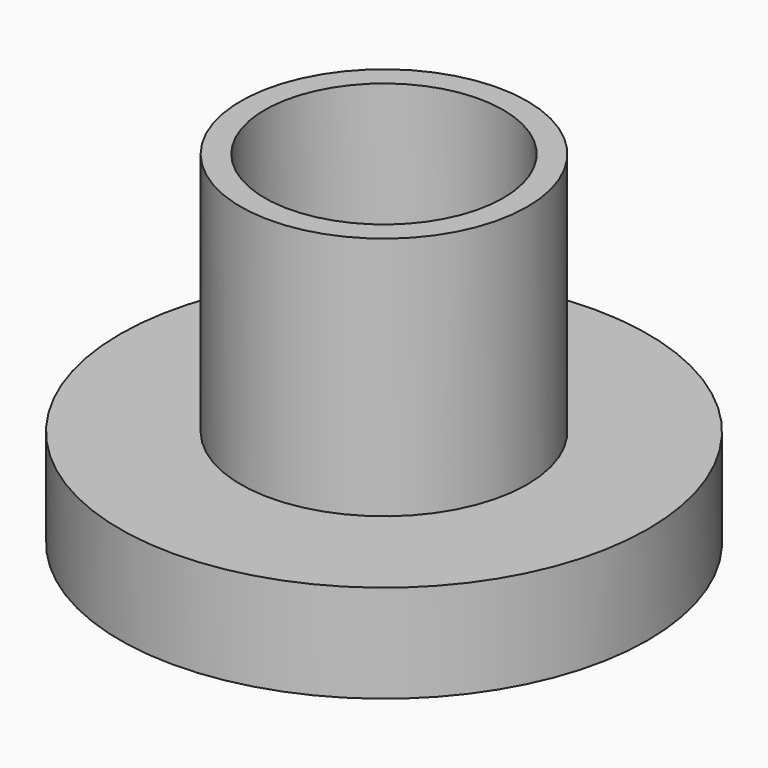
from build123d import *

# Parameters (mm, degrees)
F0_R     = 27
F1_DEPTH = 10
F2_R     = 14.65
F3_DEPTH = 25
F4_R     = 12.2
F5_DEPTH = 25
F6_R     = 3
F7_DEPTH = 5


with BuildPart() as f1:
    # F0 (on Top) → F1 (new body)
    with BuildSketch(Plane.XY):
        Circle(F0_R)
    extrude(amount=F1_DEPTH)

    # F2 (on face) → F3 (join)
    with BuildSketch(Plane.XY.offset(10)):
        Circle(F2_R)
    extrude(amount=F3_DEPTH)

    # F4 (on face) → F5 (cut)
    with BuildSketch(Plane.XY.offset(35)):
        Circle(F4_R)
    extrude(amount=-F5_DEPTH, mode=Mode.SUBTRACT)

    # F6 (on face) → F7 (cut)
    with BuildSketch(Plane.XY.offset(10)):
        Circle(F6_R)
    extrude(amount=-F7_DEPTH, mode=Mode.SUBTRACT)


solid = f1.part
